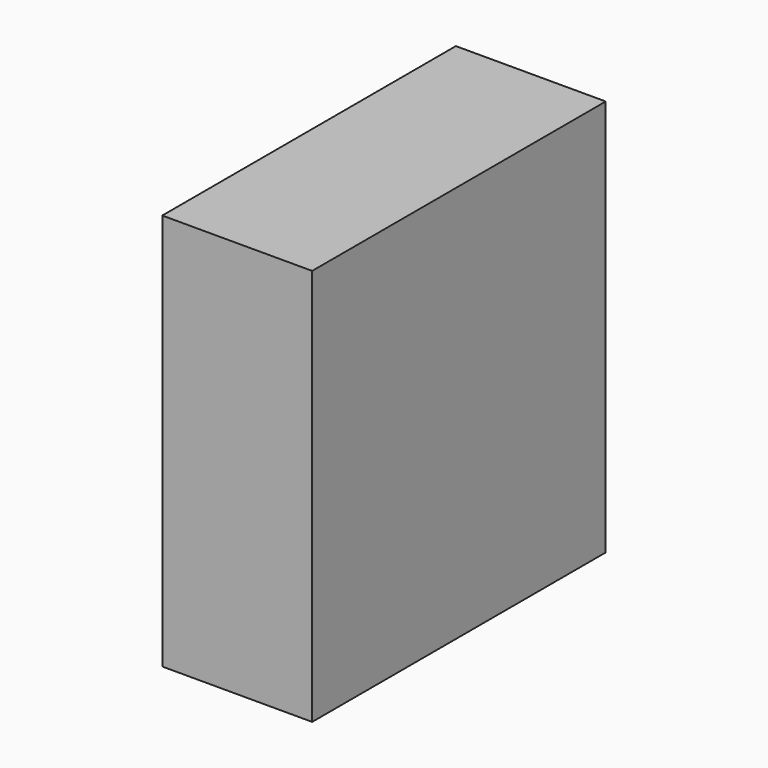
from build123d import *

# Parameters (mm, degrees)
F1_W     = 229.009598
F1_H     = 247.799694
F2_DEPTH = 93.547046


with BuildPart() as f2:
    # F1 (on face) → F2 (new body)
    with BuildSketch(Plane.YZ):
        Rectangle(F1_W, F1_H)
    extrude(amount=F2_DEPTH)


solid = f2.part
